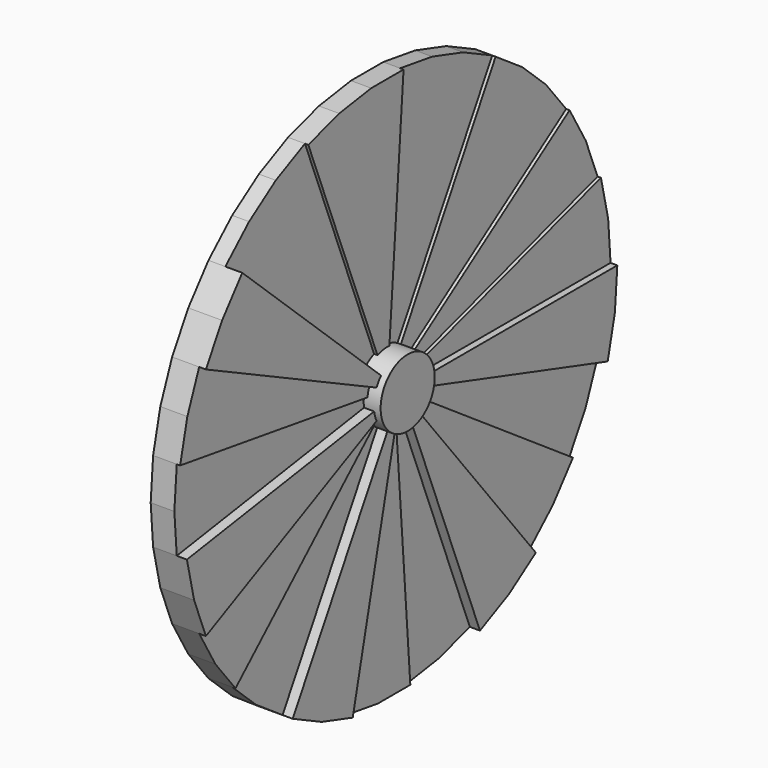
from build123d import *

# Parameters (mm, degrees)
F1_DEPTH = 25.4
F2_DEPTH = 31.75
F3_DEPTH = 38.1
F4_DEPTH = 44.45
F5_DEPTH = 50.8
F6_DEPTH = 63.5
F7_DEPTH = 76.2


with BuildPart() as f1:
    # F0 (on Right) → F1 (new body)
    with BuildSketch(Plane.YZ):
        with BuildLine():
            ThreePointArc((-23.1991550473, 59.1104830389), (-9.4641839022, 62.7907574653), (4.7453609427, 63.322441121))
            Line((4.7453609427, 63.322441121), (37.9628875419, 506.579528968))
            Line((37.9628875419, 506.579528968), (-37.9628875419, 506.579528968))
            Line((-37.9628875419, 506.579528968), (-113.0406344498, 495.2633793884))
            Line((-113.0406344498, 495.2633793884), (-185.5932403781, 472.8838643113))
            Line((-185.5932403781, 472.8838643113), (-23.1991550473, 59.1104830389))
        make_face()
        with BuildLine():
            Line((37.9628875419, 506.579528968), (4.7453609427, 63.322441121))
            ThreePointArc((4.7453609427, 63.322441121), (18.7169535751, 60.6788731674), (31.75, 54.9926131403))
            Line((31.75, 54.9926131403), (254, 439.9409051225))
            Line((254, 439.9409051225), (185.5932403781, 472.8838643113))
            Line((185.5932403781, 472.8838643113), (113.0406344498, 495.2633793884))
            Line((113.0406344498, 495.2633793884), (37.9628875419, 506.579528968))
        make_face()
        with BuildLine():
            Line((254, 439.9409051225), (31.75, 54.9926131403))
            ThreePointArc((31.75, 54.9926131403), (43.1909688485, 46.5487938612), (52.4661621691, 35.770823687))
            Line((52.4661621691, 35.770823687), (419.7292973525, 286.1665894963))
            Line((419.7292973525, 286.1665894963), (372.3903508896, 345.5277507876))
            Line((372.3903508896, 345.5277507876), (316.7328193442, 397.1703930938))
            Line((316.7328193442, 397.1703930938), (254, 439.9409051225))
        make_face()
        with BuildLine():
            Line((60.6788731674, 18.7169535751), (485.4309853394, 149.7356286007))
            Line((485.4309853394, 149.7356286007), (457.6921848944, 220.4129394717))
            Line((457.6921848944, 220.4129394717), (419.7292973525, 286.1665894963))
            Line((419.7292973525, 286.1665894963), (52.4661621691, 35.770823687))
            ThreePointArc((52.4661621691, 35.770823687), (57.2115231118, 27.551617434), (60.6788731674, 18.7169535751))
        make_face()
        with BuildLine():
            Line((63.5, 0), (508, 0))
            Line((508, 0), (502.3260597224, 75.7134712175))
            Line((502.3260597224, 75.7134712175), (485.4309853394, 149.7356286007))
            Line((485.4309853394, 149.7356286007), (60.6788731674, 18.7169535751))
            ThreePointArc((60.6788731674, 18.7169535751), (62.7907574653, 9.4641839022), (63.5, 0))
        make_face()
        with BuildLine():
            Line((502.3260597224, -75.7134712175), (508, 0))
            Line((508, 0), (63.5, 0))
            ThreePointArc((63.5, 0), (62.7907574653, -9.4641839022), (60.6788731674, -18.7169535751))
            Line((60.6788731674, -18.7169535751), (485.4309853394, -149.7356286007))
            Line((485.4309853394, -149.7356286007), (502.3260597224, -75.7134712175))
        make_face()
        with BuildLine():
            Line((457.6921848944, -220.4129394717), (485.4309853394, -149.7356286007))
            Line((485.4309853394, -149.7356286007), (60.6788731674, -18.7169535751))
            ThreePointArc((60.6788731674, -18.7169535751), (57.2115231118, -27.551617434), (52.4661621691, -35.770823687))
            Line((52.4661621691, -35.770823687), (419.7292973525, -286.1665894963))
            Line((419.7292973525, -286.1665894963), (457.6921848944, -220.4129394717))
        make_face()
        with BuildLine():
            Line((419.7292973525, -286.1665894963), (52.4661621691, -35.770823687))
            ThreePointArc((52.4661621691, -35.770823687), (46.5487938612, -43.1909688485), (39.591602418, -49.6462991367))
            Line((39.591602418, -49.6462991367), (316.7328193442, -397.1703930938))
            Line((316.7328193442, -397.1703930938), (372.3903508896, -345.5277507876))
            Line((372.3903508896, -345.5277507876), (419.7292973525, -286.1665894963))
        make_face()
        with BuildLine():
            Line((316.7328193442, -397.1703930938), (39.591602418, -49.6462991367))
            ThreePointArc((39.591602418, -49.6462991367), (31.75, -54.9926131403), (23.1991550473, -59.1104830389))
            Line((23.1991550473, -59.1104830389), (185.5932403781, -472.8838643113))
            Line((185.5932403781, -472.8838643113), (254, -439.9409051225))
            Line((254, -439.9409051225), (316.7328193442, -397.1703930938))
        make_face()
        with BuildLine():
            Line((185.5932403781, -472.8838643113), (23.1991550473, -59.1104830389))
            ThreePointArc((23.1991550473, -59.1104830389), (14.1300793062, -61.9079224235), (4.7453609427, -63.322441121))
            Line((4.7453609427, -63.322441121), (37.9628875419, -506.579528968))
            Line((37.9628875419, -506.579528968), (113.0406344498, -495.2633793884))
            Line((113.0406344498, -495.2633793884), (185.5932403781, -472.8838643113))
        make_face()
        with BuildLine():
            Line((37.9628875419, -506.579528968), (4.7453609427, -63.322441121))
            ThreePointArc((4.7453609427, -63.322441121), (-4.7453609427, -63.322441121), (-14.1300793062, -61.9079224235))
            Line((-14.1300793062, -61.9079224235), (-113.0406344498, -495.2633793884))
            Line((-113.0406344498, -495.2633793884), (-37.9628875419, -506.579528968))
            Line((-37.9628875419, -506.579528968), (37.9628875419, -506.579528968))
        make_face()
        with BuildLine():
            Line((-113.0406344498, -495.2633793884), (-14.1300793062, -61.9079224235))
            ThreePointArc((-14.1300793062, -61.9079224235), (-23.1991550473, -59.1104830389), (-31.75, -54.9926131403))
            Line((-31.75, -54.9926131403), (-254, -439.9409051225))
            Line((-254, -439.9409051225), (-185.5932403781, -472.8838643113))
            Line((-185.5932403781, -472.8838643113), (-113.0406344498, -495.2633793884))
        make_face()
        with BuildLine():
            Line((-254, -439.9409051225), (-31.75, -54.9926131403))
            ThreePointArc((-31.75, -54.9926131403), (-39.591602418, -49.6462991367), (-46.5487938612, -43.1909688485))
            Line((-46.5487938612, -43.1909688485), (-372.3903508896, -345.5277507876))
            Line((-372.3903508896, -345.5277507876), (-316.7328193442, -397.1703930938))
            Line((-316.7328193442, -397.1703930938), (-254, -439.9409051225))
        make_face()
        with BuildLine():
            Line((-372.3903508896, -345.5277507876), (-46.5487938612, -43.1909688485))
            ThreePointArc((-46.5487938612, -43.1909688485), (-52.4661621691, -35.770823687), (-57.2115231118, -27.551617434))
            Line((-57.2115231118, -27.551617434), (-457.6921848944, -220.4129394717))
            Line((-457.6921848944, -220.4129394717), (-419.7292973525, -286.1665894963))
            Line((-419.7292973525, -286.1665894963), (-372.3903508896, -345.5277507876))
        make_face()
        with BuildLine():
            Line((-457.6921848944, -220.4129394717), (-57.2115231118, -27.551617434))
            ThreePointArc((-57.2115231118, -27.551617434), (-60.6788731674, -18.7169535751), (-62.7907574653, -9.4641839022))
            Line((-62.7907574653, -9.4641839022), (-502.3260597224, -75.7134712175))
            Line((-502.3260597224, -75.7134712175), (-485.4309853394, -149.7356286007))
            Line((-485.4309853394, -149.7356286007), (-457.6921848944, -220.4129394717))
        make_face()
        with BuildLine():
            Line((-502.3260597224, -75.7134712175), (-62.7907574653, -9.4641839022))
            ThreePointArc((-62.7907574653, -9.4641839022), (-63.5, 0), (-62.7907574653, 9.4641839022))
            Line((-62.7907574653, 9.4641839022), (-502.3260597224, 75.7134712175))
            Line((-502.3260597224, 75.7134712175), (-508, 0))
            Line((-508, 0), (-502.3260597224, -75.7134712175))
        make_face()
        with BuildLine():
            Line((-502.3260597224, 75.7134712175), (-62.7907574653, 9.4641839022))
            ThreePointArc((-62.7907574653, 9.4641839022), (-60.6788731674, 18.7169535751), (-57.2115231118, 27.551617434))
            Line((-57.2115231118, 27.551617434), (-457.6921848944, 220.4129394717))
            Line((-457.6921848944, 220.4129394717), (-485.4309853394, 149.7356286007))
            Line((-485.4309853394, 149.7356286007), (-502.3260597224, 75.7134712175))
        make_face()
        with BuildLine():
            ThreePointArc((-57.2115231118, 27.551617434), (-52.4661621691, 35.770823687), (-46.5487938612, 43.1909688485))
            Line((-46.5487938612, 43.1909688485), (-372.3903508896, 345.5277507876))
            Line((-372.3903508896, 345.5277507876), (-419.7292973525, 286.1665894963))
            Line((-419.7292973525, 286.1665894963), (-457.6921848944, 220.4129394717))
            Line((-457.6921848944, 220.4129394717), (-57.2115231118, 27.551617434))
        make_face()
        with BuildLine():
            ThreePointArc((-46.5487938612, 43.1909688485), (-35.770823687, 52.4661621691), (-23.1991550473, 59.1104830389))
            Line((-23.1991550473, 59.1104830389), (-185.5932403781, 472.8838643113))
            Line((-185.5932403781, 472.8838643113), (-254, 439.9409051225))
            Line((-254, 439.9409051225), (-316.7328193442, 397.1703930938))
            Line((-316.7328193442, 397.1703930938), (-372.3903508896, 345.5277507876))
            Line((-372.3903508896, 345.5277507876), (-46.5487938612, 43.1909688485))
        make_face()
    extrude(amount=F1_DEPTH)

    # F0 (on Right) → F2 (join)
    with BuildSketch(Plane.YZ):
        with BuildLine():
            Line((37.9628875419, 506.579528968), (4.7453609427, 63.322441121))
            ThreePointArc((4.7453609427, 63.322441121), (18.7169535751, 60.6788731674), (31.75, 54.9926131403))
            Line((31.75, 54.9926131403), (254, 439.9409051225))
            Line((254, 439.9409051225), (185.5932403781, 472.8838643113))
            Line((185.5932403781, 472.8838643113), (113.0406344498, 495.2633793884))
            Line((113.0406344498, 495.2633793884), (37.9628875419, 506.579528968))
        make_face()
        with BuildLine():
            ThreePointArc((-46.5487938612, 43.1909688485), (-35.770823687, 52.4661621691), (-23.1991550473, 59.1104830389))
            Line((-23.1991550473, 59.1104830389), (-185.5932403781, 472.8838643113))
            Line((-185.5932403781, 472.8838643113), (-254, 439.9409051225))
            Line((-254, 439.9409051225), (-316.7328193442, 397.1703930938))
            Line((-316.7328193442, 397.1703930938), (-372.3903508896, 345.5277507876))
            Line((-372.3903508896, 345.5277507876), (-46.5487938612, 43.1909688485))
        make_face()
        with BuildLine():
            Line((4.7453609427, 63.322441121), (0, 0))
            Line((0, 0), (31.75, 54.9926131403))
            ThreePointArc((31.75, 54.9926131403), (18.7169535751, 60.6788731674), (4.7453609427, 63.322441121))
        make_face()
        with BuildLine():
            Line((-23.1991550473, 59.1104830389), (0, 0))
            Line((0, 0), (4.7453609427, 63.322441121))
            ThreePointArc((4.7453609427, 63.322441121), (-9.4641839022, 62.7907574653), (-23.1991550473, 59.1104830389))
        make_face()
        with BuildLine():
            Line((-46.5487938612, 43.1909688485), (0, 0))
            Line((0, 0), (-23.1991550473, 59.1104830389))
            ThreePointArc((-23.1991550473, 59.1104830389), (-35.770823687, 52.4661621691), (-46.5487938612, 43.1909688485))
        make_face()
    extrude(amount=F2_DEPTH)

    # F0 (on Right) → F3 (join)
    with BuildSketch(Plane.YZ):
        with BuildLine():
            ThreePointArc((-23.1991550473, 59.1104830389), (-9.4641839022, 62.7907574653), (4.7453609427, 63.322441121))
            Line((4.7453609427, 63.322441121), (37.9628875419, 506.579528968))
            Line((37.9628875419, 506.579528968), (-37.9628875419, 506.579528968))
            Line((-37.9628875419, 506.579528968), (-113.0406344498, 495.2633793884))
            Line((-113.0406344498, 495.2633793884), (-185.5932403781, 472.8838643113))
            Line((-185.5932403781, 472.8838643113), (-23.1991550473, 59.1104830389))
        make_face()
        with BuildLine():
            Line((254, 439.9409051225), (31.75, 54.9926131403))
            ThreePointArc((31.75, 54.9926131403), (43.1909688485, 46.5487938612), (52.4661621691, 35.770823687))
            Line((52.4661621691, 35.770823687), (419.7292973525, 286.1665894963))
            Line((419.7292973525, 286.1665894963), (372.3903508896, 345.5277507876))
            Line((372.3903508896, 345.5277507876), (316.7328193442, 397.1703930938))
            Line((316.7328193442, 397.1703930938), (254, 439.9409051225))
        make_face()
        with BuildLine():
            Line((31.75, 54.9926131403), (0, 0))
            Line((0, 0), (52.4661621691, 35.770823687))
            ThreePointArc((52.4661621691, 35.770823687), (43.1909688485, 46.5487938612), (31.75, 54.9926131403))
        make_face()
        with BuildLine():
            Line((4.7453609427, 63.322441121), (0, 0))
            Line((0, 0), (31.75, 54.9926131403))
            ThreePointArc((31.75, 54.9926131403), (18.7169535751, 60.6788731674), (4.7453609427, 63.322441121))
        make_face()
        with BuildLine():
            Line((-23.1991550473, 59.1104830389), (0, 0))
            Line((0, 0), (4.7453609427, 63.322441121))
            ThreePointArc((4.7453609427, 63.322441121), (-9.4641839022, 62.7907574653), (-23.1991550473, 59.1104830389))
        make_face()
    extrude(amount=F3_DEPTH)

    # F0 (on Right) → F4 (join)
    with BuildSketch(Plane.YZ):
        with BuildLine():
            Line((60.6788731674, 18.7169535751), (485.4309853394, 149.7356286007))
            Line((485.4309853394, 149.7356286007), (457.6921848944, 220.4129394717))
            Line((457.6921848944, 220.4129394717), (419.7292973525, 286.1665894963))
            Line((419.7292973525, 286.1665894963), (52.4661621691, 35.770823687))
            ThreePointArc((52.4661621691, 35.770823687), (57.2115231118, 27.551617434), (60.6788731674, 18.7169535751))
        make_face()
        with BuildLine():
            Line((457.6921848944, -220.4129394717), (485.4309853394, -149.7356286007))
            Line((485.4309853394, -149.7356286007), (60.6788731674, -18.7169535751))
            ThreePointArc((60.6788731674, -18.7169535751), (57.2115231118, -27.551617434), (52.4661621691, -35.770823687))
            Line((52.4661621691, -35.770823687), (419.7292973525, -286.1665894963))
            Line((419.7292973525, -286.1665894963), (457.6921848944, -220.4129394717))
        make_face()
        with BuildLine():
            Line((185.5932403781, -472.8838643113), (23.1991550473, -59.1104830389))
            ThreePointArc((23.1991550473, -59.1104830389), (14.1300793062, -61.9079224235), (4.7453609427, -63.322441121))
            Line((4.7453609427, -63.322441121), (37.9628875419, -506.579528968))
            Line((37.9628875419, -506.579528968), (113.0406344498, -495.2633793884))
            Line((113.0406344498, -495.2633793884), (185.5932403781, -472.8838643113))
        make_face()
        with BuildLine():
            Line((-254, -439.9409051225), (-31.75, -54.9926131403))
            ThreePointArc((-31.75, -54.9926131403), (-39.591602418, -49.6462991367), (-46.5487938612, -43.1909688485))
            Line((-46.5487938612, -43.1909688485), (-372.3903508896, -345.5277507876))
            Line((-372.3903508896, -345.5277507876), (-316.7328193442, -397.1703930938))
            Line((-316.7328193442, -397.1703930938), (-254, -439.9409051225))
        make_face()
        with BuildLine():
            Line((-502.3260597224, -75.7134712175), (-62.7907574653, -9.4641839022))
            ThreePointArc((-62.7907574653, -9.4641839022), (-63.5, 0), (-62.7907574653, 9.4641839022))
            Line((-62.7907574653, 9.4641839022), (-502.3260597224, 75.7134712175))
            Line((-502.3260597224, 75.7134712175), (-508, 0))
            Line((-508, 0), (-502.3260597224, -75.7134712175))
        make_face()
        with BuildLine():
            Line((52.4661621691, 35.770823687), (0, 0))
            Line((0, 0), (60.6788731674, 18.7169535751))
            ThreePointArc((60.6788731674, 18.7169535751), (57.2115231118, 27.551617434), (52.4661621691, 35.770823687))
        make_face()
        with BuildLine():
            Line((0, 0), (63.5, 0))
            ThreePointArc((63.5, 0), (62.7907574653, 9.4641839022), (60.6788731674, 18.7169535751))
            Line((60.6788731674, 18.7169535751), (0, 0))
        make_face()
        with BuildLine():
            ThreePointArc((60.6788731674, -18.7169535751), (62.7907574653, -9.4641839022), (63.5, 0))
            Line((63.5, 0), (0, 0))
            Line((0, 0), (60.6788731674, -18.7169535751))
        make_face()
        with BuildLine():
            Line((60.6788731674, -18.7169535751), (0, 0))
            Line((0, 0), (52.4661621691, -35.770823687))
            ThreePointArc((52.4661621691, -35.770823687), (57.2115231118, -27.551617434), (60.6788731674, -18.7169535751))
        make_face()
        with BuildLine():
            Line((52.4661621691, -35.770823687), (0, 0))
            Line((0, 0), (39.591602418, -49.6462991367))
            ThreePointArc((39.591602418, -49.6462991367), (46.5487938612, -43.1909688485), (52.4661621691, -35.770823687))
        make_face()
        with BuildLine():
            Line((39.591602418, -49.6462991367), (0, 0))
            Line((0, 0), (23.1991550473, -59.1104830389))
            ThreePointArc((23.1991550473, -59.1104830389), (31.75, -54.9926131403), (39.591602418, -49.6462991367))
        make_face()
        with BuildLine():
            Line((23.1991550473, -59.1104830389), (0, 0))
            Line((0, 0), (4.7453609427, -63.322441121))
            ThreePointArc((4.7453609427, -63.322441121), (14.1300793062, -61.9079224235), (23.1991550473, -59.1104830389))
        make_face()
        with BuildLine():
            Line((4.7453609427, -63.322441121), (0, 0))
            Line((0, 0), (-14.1300793062, -61.9079224235))
            ThreePointArc((-14.1300793062, -61.9079224235), (-4.7453609427, -63.322441121), (4.7453609427, -63.322441121))
        make_face()
        with BuildLine():
            Line((-14.1300793062, -61.9079224235), (0, 0))
            Line((0, 0), (-31.75, -54.9926131403))
            ThreePointArc((-31.75, -54.9926131403), (-23.1991550473, -59.1104830389), (-14.1300793062, -61.9079224235))
        make_face()
        with BuildLine():
            Line((-31.75, -54.9926131403), (0, 0))
            Line((0, 0), (-46.5487938612, -43.1909688485))
            ThreePointArc((-46.5487938612, -43.1909688485), (-39.591602418, -49.6462991367), (-31.75, -54.9926131403))
        make_face()
        with BuildLine():
            Line((-46.5487938612, -43.1909688485), (0, 0))
            Line((0, 0), (-57.2115231118, -27.551617434))
            ThreePointArc((-57.2115231118, -27.551617434), (-52.4661621691, -35.770823687), (-46.5487938612, -43.1909688485))
        make_face()
        with BuildLine():
            Line((-57.2115231118, -27.551617434), (0, 0))
            Line((0, 0), (-62.7907574653, -9.4641839022))
            ThreePointArc((-62.7907574653, -9.4641839022), (-60.6788731674, -18.7169535751), (-57.2115231118, -27.551617434))
        make_face()
        with BuildLine():
            Line((-62.7907574653, -9.4641839022), (0, 0))
            Line((0, 0), (-62.7907574653, 9.4641839022))
            ThreePointArc((-62.7907574653, 9.4641839022), (-63.5, 0), (-62.7907574653, -9.4641839022))
        make_face()
    extrude(amount=F4_DEPTH)

    # F0 (on Right) → F5 (join)
    with BuildSketch(Plane.YZ):
        with BuildLine():
            Line((63.5, 0), (508, 0))
            Line((508, 0), (502.3260597224, 75.7134712175))
            Line((502.3260597224, 75.7134712175), (485.4309853394, 149.7356286007))
            Line((485.4309853394, 149.7356286007), (60.6788731674, 18.7169535751))
            ThreePointArc((60.6788731674, 18.7169535751), (62.7907574653, 9.4641839022), (63.5, 0))
        make_face()
        with BuildLine():
            Line((419.7292973525, -286.1665894963), (52.4661621691, -35.770823687))
            ThreePointArc((52.4661621691, -35.770823687), (46.5487938612, -43.1909688485), (39.591602418, -49.6462991367))
            Line((39.591602418, -49.6462991367), (316.7328193442, -397.1703930938))
            Line((316.7328193442, -397.1703930938), (372.3903508896, -345.5277507876))
            Line((372.3903508896, -345.5277507876), (419.7292973525, -286.1665894963))
        make_face()
        with BuildLine():
            Line((37.9628875419, -506.579528968), (4.7453609427, -63.322441121))
            ThreePointArc((4.7453609427, -63.322441121), (-4.7453609427, -63.322441121), (-14.1300793062, -61.9079224235))
            Line((-14.1300793062, -61.9079224235), (-113.0406344498, -495.2633793884))
            Line((-113.0406344498, -495.2633793884), (-37.9628875419, -506.579528968))
            Line((-37.9628875419, -506.579528968), (37.9628875419, -506.579528968))
        make_face()
        with BuildLine():
            Line((-372.3903508896, -345.5277507876), (-46.5487938612, -43.1909688485))
            ThreePointArc((-46.5487938612, -43.1909688485), (-52.4661621691, -35.770823687), (-57.2115231118, -27.551617434))
            Line((-57.2115231118, -27.551617434), (-457.6921848944, -220.4129394717))
            Line((-457.6921848944, -220.4129394717), (-419.7292973525, -286.1665894963))
            Line((-419.7292973525, -286.1665894963), (-372.3903508896, -345.5277507876))
        make_face()
        with BuildLine():
            Line((-502.3260597224, 75.7134712175), (-62.7907574653, 9.4641839022))
            ThreePointArc((-62.7907574653, 9.4641839022), (-60.6788731674, 18.7169535751), (-57.2115231118, 27.551617434))
            Line((-57.2115231118, 27.551617434), (-457.6921848944, 220.4129394717))
            Line((-457.6921848944, 220.4129394717), (-485.4309853394, 149.7356286007))
            Line((-485.4309853394, 149.7356286007), (-502.3260597224, 75.7134712175))
        make_face()
        with BuildLine():
            Line((0, 0), (63.5, 0))
            ThreePointArc((63.5, 0), (62.7907574653, 9.4641839022), (60.6788731674, 18.7169535751))
            Line((60.6788731674, 18.7169535751), (0, 0))
        make_face()
        with BuildLine():
            ThreePointArc((60.6788731674, -18.7169535751), (62.7907574653, -9.4641839022), (63.5, 0))
            Line((63.5, 0), (0, 0))
            Line((0, 0), (60.6788731674, -18.7169535751))
        make_face()
        with BuildLine():
            Line((60.6788731674, -18.7169535751), (0, 0))
            Line((0, 0), (52.4661621691, -35.770823687))
            ThreePointArc((52.4661621691, -35.770823687), (57.2115231118, -27.551617434), (60.6788731674, -18.7169535751))
        make_face()
        with BuildLine():
            Line((52.4661621691, -35.770823687), (0, 0))
            Line((0, 0), (39.591602418, -49.6462991367))
            ThreePointArc((39.591602418, -49.6462991367), (46.5487938612, -43.1909688485), (52.4661621691, -35.770823687))
        make_face()
        with BuildLine():
            Line((39.591602418, -49.6462991367), (0, 0))
            Line((0, 0), (23.1991550473, -59.1104830389))
            ThreePointArc((23.1991550473, -59.1104830389), (31.75, -54.9926131403), (39.591602418, -49.6462991367))
        make_face()
        with BuildLine():
            Line((23.1991550473, -59.1104830389), (0, 0))
            Line((0, 0), (4.7453609427, -63.322441121))
            ThreePointArc((4.7453609427, -63.322441121), (14.1300793062, -61.9079224235), (23.1991550473, -59.1104830389))
        make_face()
        with BuildLine():
            Line((4.7453609427, -63.322441121), (0, 0))
            Line((0, 0), (-14.1300793062, -61.9079224235))
            ThreePointArc((-14.1300793062, -61.9079224235), (-4.7453609427, -63.322441121), (4.7453609427, -63.322441121))
        make_face()
        with BuildLine():
            Line((-14.1300793062, -61.9079224235), (0, 0))
            Line((0, 0), (-31.75, -54.9926131403))
            ThreePointArc((-31.75, -54.9926131403), (-23.1991550473, -59.1104830389), (-14.1300793062, -61.9079224235))
        make_face()
        with BuildLine():
            Line((-31.75, -54.9926131403), (0, 0))
            Line((0, 0), (-46.5487938612, -43.1909688485))
            ThreePointArc((-46.5487938612, -43.1909688485), (-39.591602418, -49.6462991367), (-31.75, -54.9926131403))
        make_face()
        with BuildLine():
            Line((-46.5487938612, -43.1909688485), (0, 0))
            Line((0, 0), (-57.2115231118, -27.551617434))
            ThreePointArc((-57.2115231118, -27.551617434), (-52.4661621691, -35.770823687), (-46.5487938612, -43.1909688485))
        make_face()
        with BuildLine():
            Line((-57.2115231118, -27.551617434), (0, 0))
            Line((0, 0), (-62.7907574653, -9.4641839022))
            ThreePointArc((-62.7907574653, -9.4641839022), (-60.6788731674, -18.7169535751), (-57.2115231118, -27.551617434))
        make_face()
        with BuildLine():
            Line((-62.7907574653, -9.4641839022), (0, 0))
            Line((0, 0), (-62.7907574653, 9.4641839022))
            ThreePointArc((-62.7907574653, 9.4641839022), (-63.5, 0), (-62.7907574653, -9.4641839022))
        make_face()
        with BuildLine():
            Line((-62.7907574653, 9.4641839022), (0, 0))
            Line((0, 0), (-57.2115231118, 27.551617434))
            ThreePointArc((-57.2115231118, 27.551617434), (-60.6788731674, 18.7169535751), (-62.7907574653, 9.4641839022))
        make_face()
    extrude(amount=F5_DEPTH)

    # F0 (on Right) → F6 (join)
    with BuildSketch(Plane.YZ):
        with BuildLine():
            Line((502.3260597224, -75.7134712175), (508, 0))
            Line((508, 0), (63.5, 0))
            ThreePointArc((63.5, 0), (62.7907574653, -9.4641839022), (60.6788731674, -18.7169535751))
            Line((60.6788731674, -18.7169535751), (485.4309853394, -149.7356286007))
            Line((485.4309853394, -149.7356286007), (502.3260597224, -75.7134712175))
        make_face()
        with BuildLine():
            Line((316.7328193442, -397.1703930938), (39.591602418, -49.6462991367))
            ThreePointArc((39.591602418, -49.6462991367), (31.75, -54.9926131403), (23.1991550473, -59.1104830389))
            Line((23.1991550473, -59.1104830389), (185.5932403781, -472.8838643113))
            Line((185.5932403781, -472.8838643113), (254, -439.9409051225))
            Line((254, -439.9409051225), (316.7328193442, -397.1703930938))
        make_face()
        with BuildLine():
            Line((-113.0406344498, -495.2633793884), (-14.1300793062, -61.9079224235))
            ThreePointArc((-14.1300793062, -61.9079224235), (-23.1991550473, -59.1104830389), (-31.75, -54.9926131403))
            Line((-31.75, -54.9926131403), (-254, -439.9409051225))
            Line((-254, -439.9409051225), (-185.5932403781, -472.8838643113))
            Line((-185.5932403781, -472.8838643113), (-113.0406344498, -495.2633793884))
        make_face()
        with BuildLine():
            Line((-457.6921848944, -220.4129394717), (-57.2115231118, -27.551617434))
            ThreePointArc((-57.2115231118, -27.551617434), (-60.6788731674, -18.7169535751), (-62.7907574653, -9.4641839022))
            Line((-62.7907574653, -9.4641839022), (-502.3260597224, -75.7134712175))
            Line((-502.3260597224, -75.7134712175), (-485.4309853394, -149.7356286007))
            Line((-485.4309853394, -149.7356286007), (-457.6921848944, -220.4129394717))
        make_face()
        with BuildLine():
            ThreePointArc((-57.2115231118, 27.551617434), (-52.4661621691, 35.770823687), (-46.5487938612, 43.1909688485))
            Line((-46.5487938612, 43.1909688485), (-372.3903508896, 345.5277507876))
            Line((-372.3903508896, 345.5277507876), (-419.7292973525, 286.1665894963))
            Line((-419.7292973525, 286.1665894963), (-457.6921848944, 220.4129394717))
            Line((-457.6921848944, 220.4129394717), (-57.2115231118, 27.551617434))
        make_face()
        with BuildLine():
            ThreePointArc((60.6788731674, -18.7169535751), (62.7907574653, -9.4641839022), (63.5, 0))
            Line((63.5, 0), (0, 0))
            Line((0, 0), (60.6788731674, -18.7169535751))
        make_face()
        with BuildLine():
            Line((60.6788731674, -18.7169535751), (0, 0))
            Line((0, 0), (52.4661621691, -35.770823687))
            ThreePointArc((52.4661621691, -35.770823687), (57.2115231118, -27.551617434), (60.6788731674, -18.7169535751))
        make_face()
        with BuildLine():
            Line((52.4661621691, -35.770823687), (0, 0))
            Line((0, 0), (39.591602418, -49.6462991367))
            ThreePointArc((39.591602418, -49.6462991367), (46.5487938612, -43.1909688485), (52.4661621691, -35.770823687))
        make_face()
        with BuildLine():
            Line((39.591602418, -49.6462991367), (0, 0))
            Line((0, 0), (23.1991550473, -59.1104830389))
            ThreePointArc((23.1991550473, -59.1104830389), (31.75, -54.9926131403), (39.591602418, -49.6462991367))
        make_face()
        with BuildLine():
            Line((23.1991550473, -59.1104830389), (0, 0))
            Line((0, 0), (4.7453609427, -63.322441121))
            ThreePointArc((4.7453609427, -63.322441121), (14.1300793062, -61.9079224235), (23.1991550473, -59.1104830389))
        make_face()
        with BuildLine():
            Line((4.7453609427, -63.322441121), (0, 0))
            Line((0, 0), (-14.1300793062, -61.9079224235))
            ThreePointArc((-14.1300793062, -61.9079224235), (-4.7453609427, -63.322441121), (4.7453609427, -63.322441121))
        make_face()
        with BuildLine():
            Line((-14.1300793062, -61.9079224235), (0, 0))
            Line((0, 0), (-31.75, -54.9926131403))
            ThreePointArc((-31.75, -54.9926131403), (-23.1991550473, -59.1104830389), (-14.1300793062, -61.9079224235))
        make_face()
        with BuildLine():
            Line((-31.75, -54.9926131403), (0, 0))
            Line((0, 0), (-46.5487938612, -43.1909688485))
            ThreePointArc((-46.5487938612, -43.1909688485), (-39.591602418, -49.6462991367), (-31.75, -54.9926131403))
        make_face()
        with BuildLine():
            Line((-46.5487938612, -43.1909688485), (0, 0))
            Line((0, 0), (-57.2115231118, -27.551617434))
            ThreePointArc((-57.2115231118, -27.551617434), (-52.4661621691, -35.770823687), (-46.5487938612, -43.1909688485))
        make_face()
        with BuildLine():
            Line((-57.2115231118, -27.551617434), (0, 0))
            Line((0, 0), (-62.7907574653, -9.4641839022))
            ThreePointArc((-62.7907574653, -9.4641839022), (-60.6788731674, -18.7169535751), (-57.2115231118, -27.551617434))
        make_face()
        with BuildLine():
            Line((-62.7907574653, -9.4641839022), (0, 0))
            Line((0, 0), (-62.7907574653, 9.4641839022))
            ThreePointArc((-62.7907574653, 9.4641839022), (-63.5, 0), (-62.7907574653, -9.4641839022))
        make_face()
        with BuildLine():
            Line((-62.7907574653, 9.4641839022), (0, 0))
            Line((0, 0), (-57.2115231118, 27.551617434))
            ThreePointArc((-57.2115231118, 27.551617434), (-60.6788731674, 18.7169535751), (-62.7907574653, 9.4641839022))
        make_face()
        with BuildLine():
            Line((-57.2115231118, 27.551617434), (0, 0))
            Line((0, 0), (-46.5487938612, 43.1909688485))
            ThreePointArc((-46.5487938612, 43.1909688485), (-52.4661621691, 35.770823687), (-57.2115231118, 27.551617434))
        make_face()
    extrude(amount=F6_DEPTH)

    # F0 (on Right) → F7 (join)
    with BuildSketch(Plane.YZ):
        with BuildLine():
            Line((-46.5487938612, 43.1909688485), (0, 0))
            Line((0, 0), (-23.1991550473, 59.1104830389))
            ThreePointArc((-23.1991550473, 59.1104830389), (-35.770823687, 52.4661621691), (-46.5487938612, 43.1909688485))
        make_face()
        with BuildLine():
            Line((-57.2115231118, 27.551617434), (0, 0))
            Line((0, 0), (-46.5487938612, 43.1909688485))
            ThreePointArc((-46.5487938612, 43.1909688485), (-52.4661621691, 35.770823687), (-57.2115231118, 27.551617434))
        make_face()
        with BuildLine():
            Line((-62.7907574653, 9.4641839022), (0, 0))
            Line((0, 0), (-57.2115231118, 27.551617434))
            ThreePointArc((-57.2115231118, 27.551617434), (-60.6788731674, 18.7169535751), (-62.7907574653, 9.4641839022))
        make_face()
        with BuildLine():
            Line((-62.7907574653, -9.4641839022), (0, 0))
            Line((0, 0), (-62.7907574653, 9.4641839022))
            ThreePointArc((-62.7907574653, 9.4641839022), (-63.5, 0), (-62.7907574653, -9.4641839022))
        make_face()
        with BuildLine():
            Line((-57.2115231118, -27.551617434), (0, 0))
            Line((0, 0), (-62.7907574653, -9.4641839022))
            ThreePointArc((-62.7907574653, -9.4641839022), (-60.6788731674, -18.7169535751), (-57.2115231118, -27.551617434))
        make_face()
        with BuildLine():
            Line((-46.5487938612, -43.1909688485), (0, 0))
            Line((0, 0), (-57.2115231118, -27.551617434))
            ThreePointArc((-57.2115231118, -27.551617434), (-52.4661621691, -35.770823687), (-46.5487938612, -43.1909688485))
        make_face()
        with BuildLine():
            Line((-31.75, -54.9926131403), (0, 0))
            Line((0, 0), (-46.5487938612, -43.1909688485))
            ThreePointArc((-46.5487938612, -43.1909688485), (-39.591602418, -49.6462991367), (-31.75, -54.9926131403))
        make_face()
        with BuildLine():
            Line((-14.1300793062, -61.9079224235), (0, 0))
            Line((0, 0), (-31.75, -54.9926131403))
            ThreePointArc((-31.75, -54.9926131403), (-23.1991550473, -59.1104830389), (-14.1300793062, -61.9079224235))
        make_face()
        with BuildLine():
            Line((4.7453609427, -63.322441121), (0, 0))
            Line((0, 0), (-14.1300793062, -61.9079224235))
            ThreePointArc((-14.1300793062, -61.9079224235), (-4.7453609427, -63.322441121), (4.7453609427, -63.322441121))
        make_face()
        with BuildLine():
            Line((23.1991550473, -59.1104830389), (0, 0))
            Line((0, 0), (4.7453609427, -63.322441121))
            ThreePointArc((4.7453609427, -63.322441121), (14.1300793062, -61.9079224235), (23.1991550473, -59.1104830389))
        make_face()
        with BuildLine():
            Line((39.591602418, -49.6462991367), (0, 0))
            Line((0, 0), (23.1991550473, -59.1104830389))
            ThreePointArc((23.1991550473, -59.1104830389), (31.75, -54.9926131403), (39.591602418, -49.6462991367))
        make_face()
        with BuildLine():
            Line((52.4661621691, -35.770823687), (0, 0))
            Line((0, 0), (39.591602418, -49.6462991367))
            ThreePointArc((39.591602418, -49.6462991367), (46.5487938612, -43.1909688485), (52.4661621691, -35.770823687))
        make_face()
        with BuildLine():
            Line((60.6788731674, -18.7169535751), (0, 0))
            Line((0, 0), (52.4661621691, -35.770823687))
            ThreePointArc((52.4661621691, -35.770823687), (57.2115231118, -27.551617434), (60.6788731674, -18.7169535751))
        make_face()
        with BuildLine():
            ThreePointArc((60.6788731674, -18.7169535751), (62.7907574653, -9.4641839022), (63.5, 0))
            Line((63.5, 0), (0, 0))
            Line((0, 0), (60.6788731674, -18.7169535751))
        make_face()
        with BuildLine():
            Line((0, 0), (63.5, 0))
            ThreePointArc((63.5, 0), (62.7907574653, 9.4641839022), (60.6788731674, 18.7169535751))
            Line((60.6788731674, 18.7169535751), (0, 0))
        make_face()
        with BuildLine():
            Line((52.4661621691, 35.770823687), (0, 0))
            Line((0, 0), (60.6788731674, 18.7169535751))
            ThreePointArc((60.6788731674, 18.7169535751), (57.2115231118, 27.551617434), (52.4661621691, 35.770823687))
        make_face()
        with BuildLine():
            Line((31.75, 54.9926131403), (0, 0))
            Line((0, 0), (52.4661621691, 35.770823687))
            ThreePointArc((52.4661621691, 35.770823687), (43.1909688485, 46.5487938612), (31.75, 54.9926131403))
        make_face()
        with BuildLine():
            Line((4.7453609427, 63.322441121), (0, 0))
            Line((0, 0), (31.75, 54.9926131403))
            ThreePointArc((31.75, 54.9926131403), (18.7169535751, 60.6788731674), (4.7453609427, 63.322441121))
        make_face()
        with BuildLine():
            Line((-23.1991550473, 59.1104830389), (0, 0))
            Line((0, 0), (4.7453609427, 63.322441121))
            ThreePointArc((4.7453609427, 63.322441121), (-9.4641839022, 62.7907574653), (-23.1991550473, 59.1104830389))
        make_face()
    extrude(amount=F7_DEPTH)


solid = f1.part
